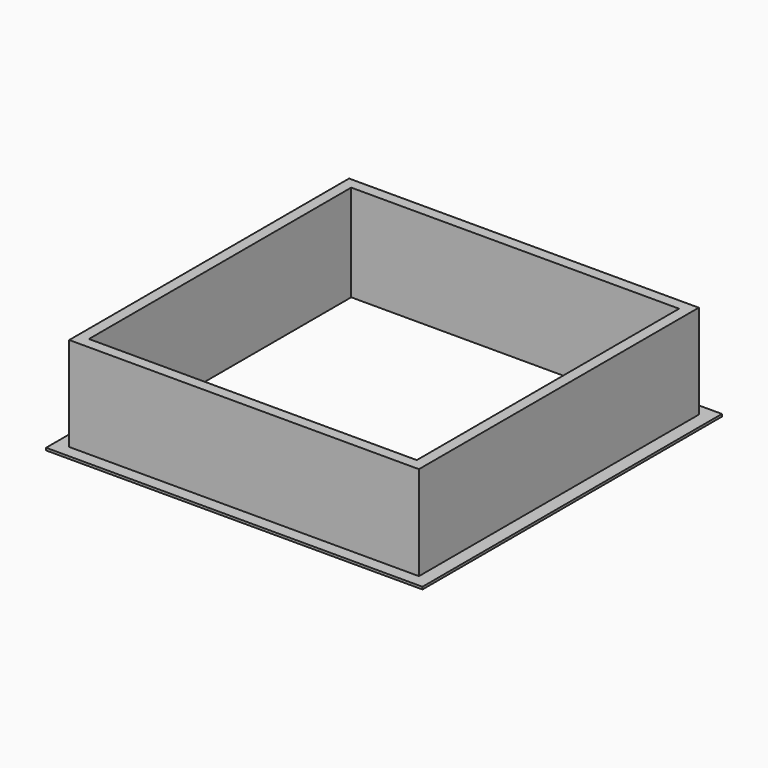
from build123d import *

# Parameters (mm, degrees)
F0_W     = 91.948
F0_H     = 91.972486
F0_W_2   = 86.2076
F0_H_2   = 86.2092
F1_DEPTH = 25.4
F2_W     = 98.967262
F2_H     = 98.423972
F2_W_2   = 91.629356
F2_H_2   = 91.881752
F3_DEPTH = 0.635


with BuildPart() as f1:
    # F0 (on Top) → F1 (new body)
    with BuildSketch(Plane.XY):
        Rectangle(F0_W, F0_H)
        Rectangle(F0_W_2, F0_H_2, mode=Mode.SUBTRACT)
    extrude(amount=F1_DEPTH)

    # F2 (on Top) → F3 (join)
    with BuildSketch(Plane.XY):
        Rectangle(F2_W, F2_H)
        Rectangle(F2_W_2, F2_H_2, mode=Mode.SUBTRACT)
    extrude(amount=F3_DEPTH)


solid = f1.part
